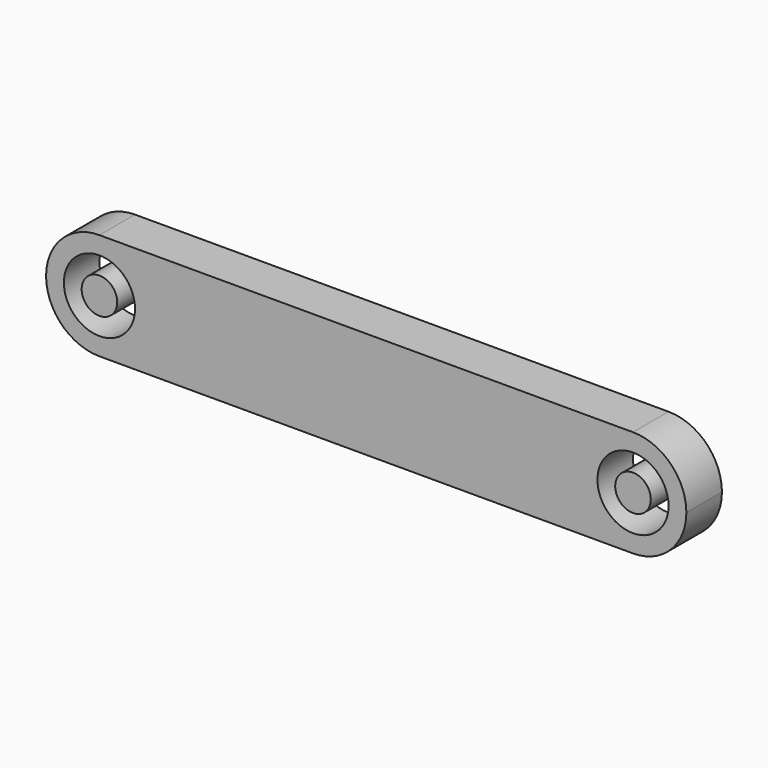
from build123d import *

# Parameters (mm, degrees)
F0_R     = 4
F0_R_2   = 2
F1_DEPTH = 5


with BuildPart() as f1:
    # F0 (on Front) → F1 (new body)
    with BuildSketch(Plane.XZ):
        with BuildLine():
            ThreePointArc((-30, 6), (-25.757359, 4.242641), (-24, 0))
            ThreePointArc((-24, 0), (-25.757359, -4.242641), (-30, -6))
            Line((-30, -6), (0, -6))
            Line((0, -6), (30, -6))
            ThreePointArc((30, -6), (24, 0), (30, 6))
            Line((30, 6), (0, 6))
            Line((0, 6), (-30, 6))
        make_face()
        with BuildLine():
            ThreePointArc((36, 0), (34.242641, 4.242641), (30, 6))
            ThreePointArc((30, 6), (24, 0), (30, -6))
            ThreePointArc((30, -6), (34.242641, -4.242641), (36, 0))
        make_face()
        with Locations((30, 0)):
            Circle(F0_R, mode=Mode.SUBTRACT)
        with Locations((30, 0)):
            Circle(F0_R_2)
        with BuildLine():
            ThreePointArc((-30, -6), (-25.757359, -4.242641), (-24, 0))
            ThreePointArc((-24, 0), (-25.757359, 4.242641), (-30, 6))
            ThreePointArc((-30, 6), (-36, 0), (-30, -6))
        make_face()
        with Locations((-30, 0)):
            Circle(F0_R, mode=Mode.SUBTRACT)
        with Locations((-30, 0)):
            Circle(F0_R_2)
    extrude(amount=F1_DEPTH)


solid = f1.part
